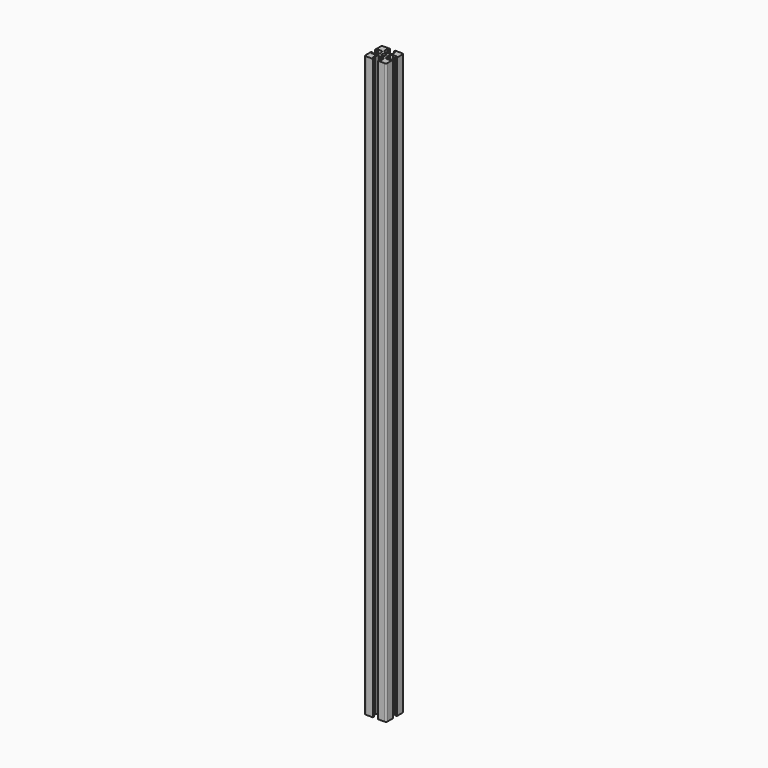
from build123d import *

# Parameters (mm, degrees)
F0_R     = 1.25
F1_DEPTH = 200


with BuildPart() as f1:
    # F0 (on Top) → F1 (new body, symmetric)
    with BuildSketch(Plane.XY):
        with BuildLine():
            Line((1.7, -7.5), (6.5, -7.5))
            ThreePointArc((6.5, -7.5), (7.207107, -7.207107), (7.5, -6.5))
            Line((7.5, -6.5), (7.5, -1.7))
            Line((7.5, -1.7), (6.4, -1.7))
            Line((6.4, -1.7), (6.4, -2.85))
            Line((6.4, -2.85), (3.8, -2.85))
            Line((3.8, -2.85), (2.8, -1.7))
            Line((2.8, -1.7), (2.8, -0.519615))
            Line((2.8, -0.519615), (2.5, 0))
            Line((2.5, 0), (2.8, 0.519615))
            Line((2.8, 0.519615), (2.8, 1.7))
            Line((2.8, 1.7), (3.8, 2.85))
            Line((3.8, 2.85), (6.4, 2.85))
            Line((6.4, 2.85), (6.4, 1.7))
            Line((6.4, 1.7), (7.5, 1.7))
            Line((7.5, 1.7), (7.5, 6.5))
            ThreePointArc((7.5, 6.5), (7.207107, 7.207107), (6.5, 7.5))
            Line((6.5, 7.5), (1.7, 7.5))
            Line((1.7, 7.5), (1.7, 6.4))
            Line((1.7, 6.4), (2.85, 6.4))
            Line((2.85, 6.4), (2.85, 3.8))
            Line((2.85, 3.8), (1.7, 2.8))
            Line((1.7, 2.8), (0.519615, 2.8))
            Line((0.519615, 2.8), (0, 2.5))
            Line((0, 2.5), (-0.519615, 2.8))
            Line((-0.519615, 2.8), (-1.7, 2.8))
            Line((-1.7, 2.8), (-2.85, 3.8))
            Line((-2.85, 3.8), (-2.85, 6.4))
            Line((-2.85, 6.4), (-1.7, 6.4))
            Line((-1.7, 6.4), (-1.7, 7.5))
            Line((-1.7, 7.5), (-6.5, 7.5))
            ThreePointArc((-6.5, 7.5), (-7.207107, 7.207107), (-7.5, 6.5))
            Line((-7.5, 6.5), (-7.5, 1.7))
            Line((-7.5, 1.7), (-6.4, 1.7))
            Line((-6.4, 1.7), (-6.4, 2.85))
            Line((-6.4, 2.85), (-3.8, 2.85))
            Line((-3.8, 2.85), (-2.8, 1.7))
            Line((-2.8, 1.7), (-2.8, 0.519615))
            Line((-2.8, 0.519615), (-2.5, 0))
            Line((-2.5, 0), (-2.8, -0.519615))
            Line((-2.8, -0.519615), (-2.8, -1.7))
            Line((-2.8, -1.7), (-3.8, -2.85))
            Line((-3.8, -2.85), (-6.4, -2.85))
            Line((-6.4, -2.85), (-6.4, -1.7))
            Line((-6.4, -1.7), (-7.5, -1.7))
            Line((-7.5, -1.7), (-7.5, -6.5))
            ThreePointArc((-7.5, -6.5), (-7.207107, -7.207107), (-6.5, -7.5))
            Line((-6.5, -7.5), (-1.7, -7.5))
            Line((-1.7, -7.5), (-1.7, -6.4))
            Line((-1.7, -6.4), (-2.85, -6.4))
            Line((-2.85, -6.4), (-2.85, -3.8))
            Line((-2.85, -3.8), (-1.7, -2.8))
            Line((-1.7, -2.8), (-0.519615, -2.8))
            Line((-0.519615, -2.8), (0, -2.5))
            Line((0, -2.5), (0.519615, -2.8))
            Line((0.519615, -2.8), (1.7, -2.8))
            Line((1.7, -2.8), (2.85, -3.8))
            Line((2.85, -3.8), (2.85, -6.4))
            Line((2.85, -6.4), (1.7, -6.4))
            Line((1.7, -6.4), (1.7, -7.5))
        make_face()
        Circle(F0_R, mode=Mode.SUBTRACT)
    extrude(amount=F1_DEPTH, both=True)


solid = f1.part
